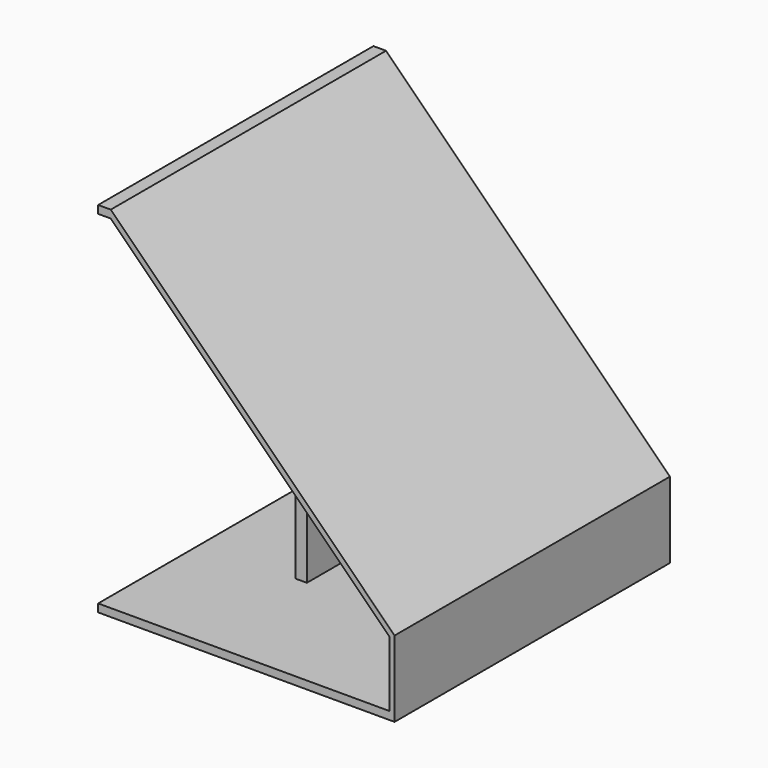
from build123d import *

# Parameters (mm, degrees)
F1_DEPTH = 3000
F2_W     = 100
F2_H     = 1875
F3_DEPTH = 915


with BuildPart() as f1:
    # F0 (on Front) → F1 (new body)
    with BuildSketch(Plane.XZ):
        Polygon((2540, 0), (0, 0), (0, -69.106162), (2584.532759, -69.106162), (2584.532759, 594.090235), (110, 3058.439732), (0, 3058.439732), (0, 2990), (110, 2990), (2540, 570), align=None)
    extrude(amount=F1_DEPTH)

    # F2 (on face) → F3 (join)
    with BuildSketch(Plane.XY):
        with Locations((870, -937.5)):
            Rectangle(F2_W, F2_H)
    extrude(amount=F3_DEPTH)


solid = f1.part
